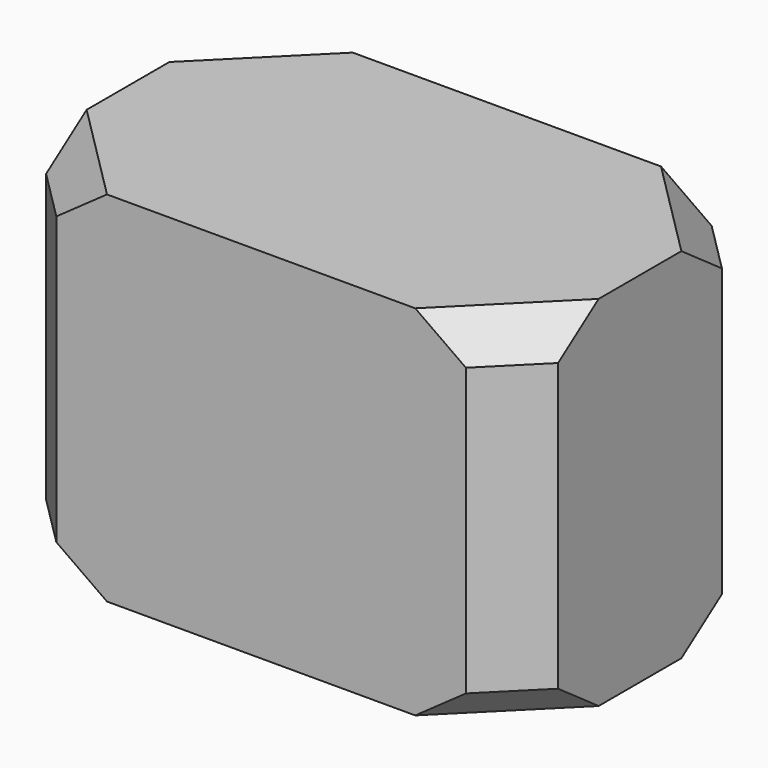
from build123d import *

# Parameters (mm, degrees)
F0_W     = 100
F0_H     = 60
F1_DEPTH = 70
F2_SIZE  = 10
F3_SIZE  = 7


with BuildPart() as f1:
    # F0 (on Top) → F1 (new body)
    with BuildSketch(Plane.XY):
        Rectangle(F0_W, F0_H)
    extrude(amount=F1_DEPTH)

    # F2
    f2_edges = [f1.edges().sort_by_distance(p)[0] for p in [
        (-50, -30, 35),
        (50, -30, 35),
        (50, 30, 35),
        (-50, 30, 35),
    ]]
    chamfer(f2_edges, length=F2_SIZE)

    # F3
    f3_edges = [f1.edges().sort_by_distance(p)[0] for p in [
        (45, 25, 70),
        (45, 25, 0),
        (-45, 25, 70),
        (-45, 25, 0),
        (-45, -25, 70),
        (45, -25, 70),
        (-45, -25, 0),
        (45, -25, 0),
    ]]
    chamfer(f3_edges, length=F3_SIZE)


solid = f1.part
